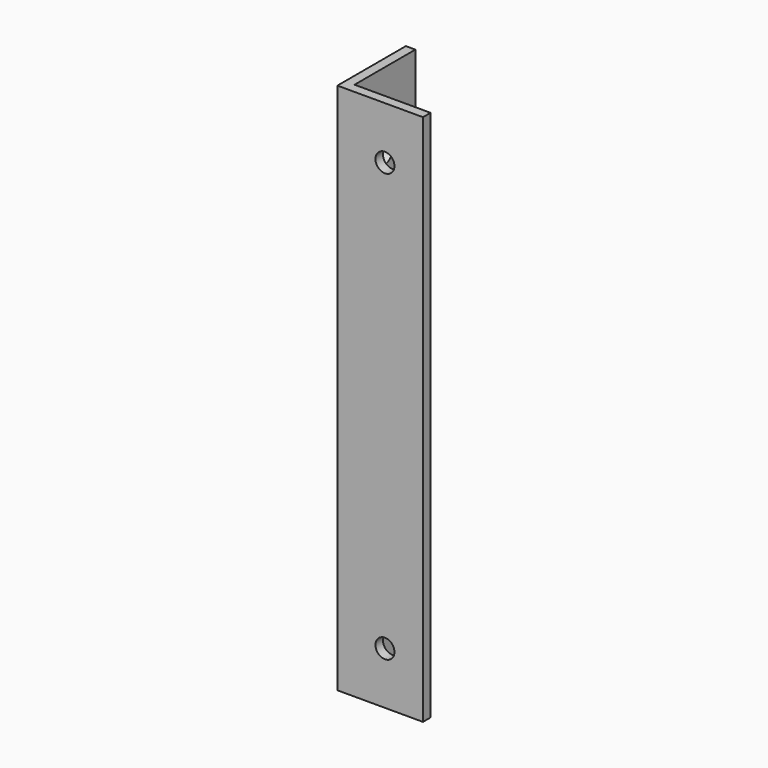
from build123d import *

# Parameters (mm, degrees)
F1_DEPTH = 56
F2_R     = 1
F3_DEPTH = 1
F4_R     = 1
F5_DEPTH = 1


with BuildPart() as f1:
    # F0 (on Top) → F1 (new body)
    with BuildSketch(Plane.XY):
        Polygon((0, 9), (0, 0), (9, 0), (9, 1), (1, 1), (1, 9), align=None)
    extrude(amount=F1_DEPTH)

    # F2 (on face) → F3 (cut, through all)
    with BuildSketch(Plane.XZ):
        with Locations((5, 50.5)):
            Circle(F2_R)
        with Locations((5, 5.5)):
            Circle(F2_R)
    extrude(amount=-F3_DEPTH, mode=Mode.SUBTRACT)

    # F4 (on face) → F5 (cut, through all)
    with BuildSketch(Plane(origin=(0, 0, 0), x_dir=(0, -1, 0), z_dir=(-1, 0, 0))):
        with Locations((-5, 48)):
            Circle(F4_R)
        with Locations((-5, 8)):
            Circle(F4_R)
        with Locations((-5, 13)):
            Circle(F4_R)
        with Locations((-5, 43)):
            Circle(F4_R)
    extrude(amount=-F5_DEPTH, mode=Mode.SUBTRACT)


solid = f1.part
